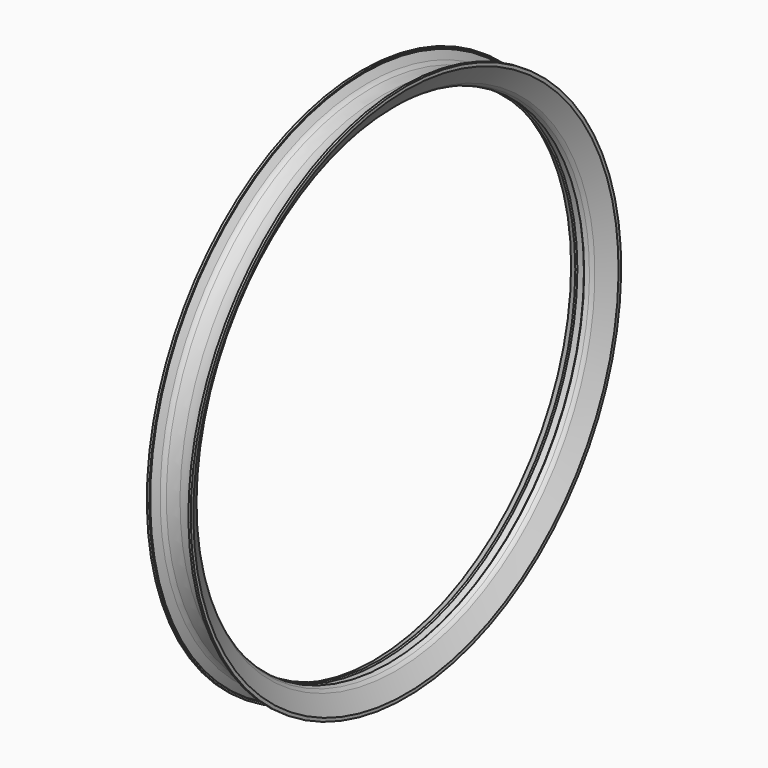
from build123d import *

# Parameters (mm, degrees)
F2_R = 5.08


with BuildPart() as f1:
    # F0 (on Front) → F1 (revolve)
    with BuildSketch(Plane.XZ):
        with BuildLine():
            Line((3.438026, 189.601974), (8.168467, 191.453819))
            Line((8.168467, 191.453819), (17, 205.96))
            Line((17, 205.96), (17, 208.5))
            Line((17, 208.5), (15.222, 208.5))
            Line((15.222, 208.5), (15.222, 207.423023))
            Line((15.222, 207.423023), (16.111, 207.423023))
            Line((16.111, 207.423023), (16.111, 206.941996))
            Line((16.111, 206.941996), (11.568008, 199.479931))
            ThreePointArc((11.568008, 199.479931), (5.858924, 198.081988), (0, 197.612))
            ThreePointArc((0, 197.612), (-5.858924, 198.081988), (-11.568008, 199.479931))
            Line((-11.568008, 199.479931), (-16.111, 206.941996))
            Line((-16.111, 206.941996), (-16.111, 207.423023))
            Line((-16.111, 207.423023), (-15.222, 207.423023))
            Line((-15.222, 207.423023), (-15.222, 208.5))
            Line((-15.222, 208.5), (-17, 208.5))
            Line((-17, 208.5), (-17, 205.96))
            Line((-17, 205.96), (-8.168467, 191.453819))
            Line((-8.168467, 191.453819), (-3.438026, 189.601974))
            Line((-3.438026, 189.601974), (-2.54, 190.5))
            Line((-2.54, 190.5), (0, 190.5))
            Line((0, 190.5), (2.54, 190.5))
            Line((2.54, 190.5), (3.438026, 189.601974))
        make_face()
    revolve(axis=Axis((69.086209, 0, 0), (1, 0, 0)))

    # F2
    f2_edges = [f1.edges().sort_by_distance(p)[0] for p in [
        (-11.568008, 0, -199.479931),
        (8.168467, 0, -191.453819),
    ]]
    fillet(f2_edges, radius=F2_R)


solid = f1.part
